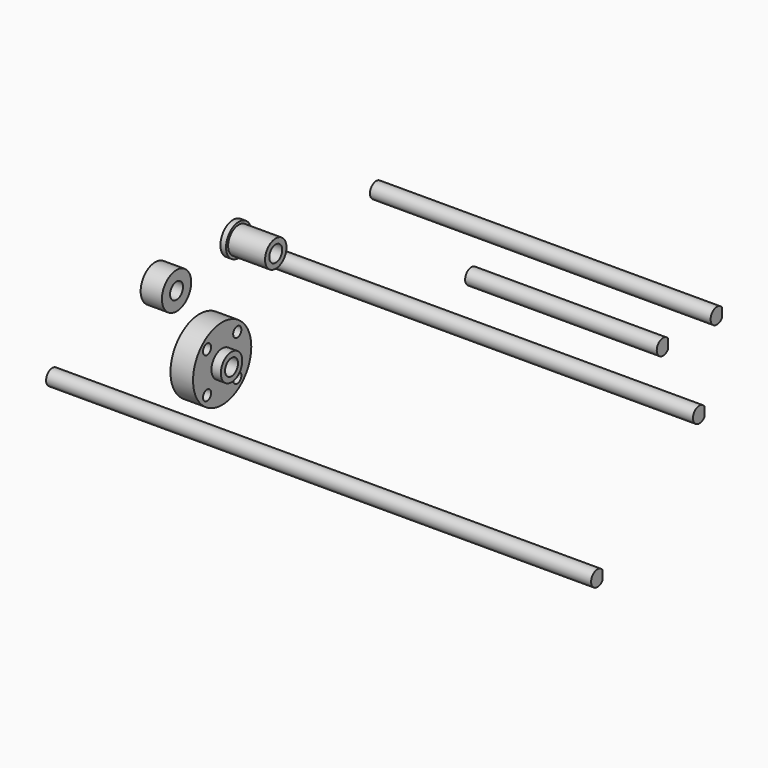
from build123d import *

# Parameters (mm, degrees)
F0_R      = 4.7625
F0_R_2    = 3.9878
F1_DEPTH  = 1.6764
F0_R_3    = 2.413
F2_DEPTH  = 12.7
F3_R      = 5.4483
F3_R_2    = 2.413
F4_DEPTH  = 6.35
F5_R      = 10.8585
F5_R_2    = 2.413
F6_DEPTH  = 6.731
F7_R      = 3.9925331181
F7_R_2    = 2.413
F8_DEPTH  = 2.794
F10_D     = 3.048
F12_DEPTH = 129.54
F14_DEPTH = 27.94
F16_DEPTH = 33.02
F18_DEPTH = 44.45


with BuildPart() as f1:
    # F0 (on Right) → F1 (new body)
    with BuildSketch(Plane.YZ):
        Circle(F0_R)
        Circle(F0_R_2, mode=Mode.SUBTRACT)
    extrude(amount=F1_DEPTH)

    # F0 (on Right) → F2 (join)
    with BuildSketch(Plane.YZ):
        Circle(F0_R_2)
        Circle(F0_R_3, mode=Mode.SUBTRACT)
    extrude(amount=F2_DEPTH)


with BuildPart() as f4:
    # F3 (on Right) → F4 (new body)
    with BuildSketch(Plane.YZ):
        with Locations((-29.054964603, 0)):
            Circle(F3_R)
        with Locations((-29.054964603, 0)):
            Circle(F3_R_2, mode=Mode.SUBTRACT)
    extrude(amount=F4_DEPTH)


with BuildPart() as f6:
    # F5 (on Right) → F6 (new body)
    with BuildSketch(Plane.YZ):
        with Locations((-12.5265177339, -25.7422216237)):
            Circle(F5_R)
        with Locations((-12.5265177339, -25.7422216237)):
            Circle(F5_R_2, mode=Mode.SUBTRACT)
    extrude(amount=F6_DEPTH)

    # F7 (on face) → F8 (join)
    with BuildSketch(Plane.YZ.offset(6.731)):
        with Locations((-12.5265177339, -25.7422216237)):
            Circle(F7_R)
        with Locations((-12.5265177339, -25.7422216237)):
            Circle(F7_R_2, mode=Mode.SUBTRACT)
    extrude(amount=F8_DEPTH)

    # F10 (through all)
    with Locations(Plane(origin=(0, 0, 0), x_dir=(0, -1, 0), z_dir=(-1, 0, 0))):
        with Locations((6.8917556933, -19.7094377103), (18.1612797746, -19.7094377103), (18.1612797746, -31.775005537), (6.8917556933, -31.775005537)):
            Hole(F10_D / 2)


with BuildPart() as f12:
    # F11 (on Right) → F12 (new body)
    with BuildSketch(Plane.YZ):
        with BuildLine():
            Line((13.721502339, -10.5178534441), (13.721502339, -7.6649008402))
            ThreePointArc((13.721502339, -7.6649008402), (9.505102339, -9.0913771421), (13.721502339, -10.5178534441))
        make_face()
    extrude(amount=F12_DEPTH)


with BuildPart() as f13_1:
    # F13: copy of F12
    add(f12.part.moved(Location((0, 41.48225, 0))))

    # F14 (cut): a face of the model
    f14_faces = [f13_1.faces().sort_by_distance(p)[0] for p in [
        (129.54, 53.2188838288, -9.0913771421),
    ]]
    extrude(f14_faces, amount=-F14_DEPTH, mode=Mode.SUBTRACT)


with BuildPart() as f15_1:
    # F15: copy of F12
    add(f12.part.moved(Location((0, -79.26249, 0))))

    # F16 (add): a face of the model
    f16_faces = [f15_1.faces().sort_by_distance(p)[0] for p in [
        (129.54, -67.5258561712, -9.0913771421),
    ]]
    extrude(f16_faces, amount=F16_DEPTH)


with BuildPart() as f17_1:
    # F17: copy of F13_1
    add(f13_1.part.moved(Location((0, -20.08332, 0))))

    # F18 (cut): a face of the model
    f18_faces = [f17_1.faces().sort_by_distance(p)[0] for p in [
        (0, 33.1355638288, -9.0913771421),
    ]]
    extrude(f18_faces, amount=-F18_DEPTH, mode=Mode.SUBTRACT)


solid = Compound([f1.part, f4.part, f6.part, f12.part, f13_1.part, f15_1.part, f17_1.part])
